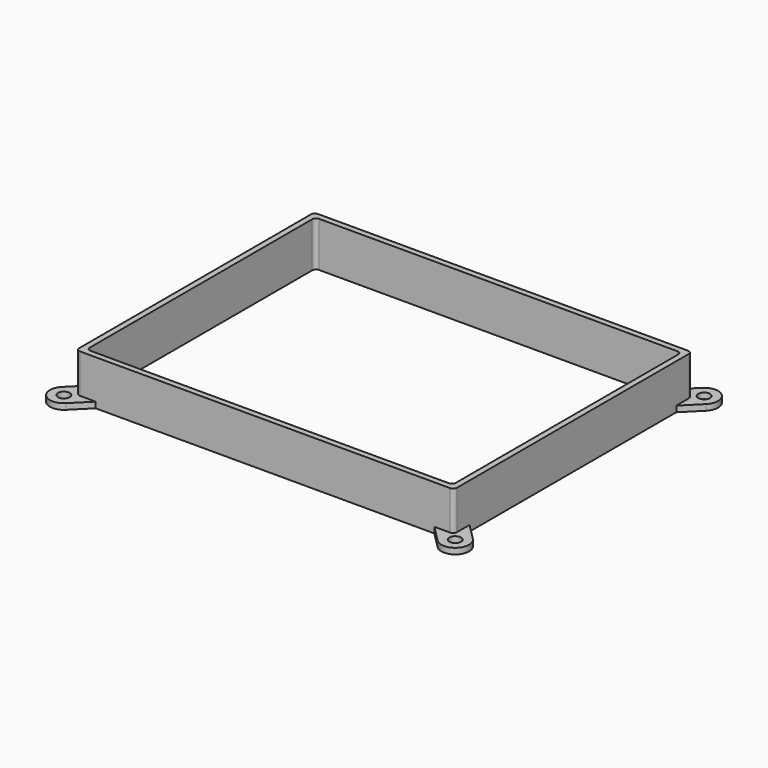
from build123d import *

# Parameters (mm, degrees)
SKETCH007_R   = 1.5
SKETCH007_W   = 93.5
SKETCH007_H   = 73
PAD004_DEPTH  = 1.5
SKETCH008_W   = 96.5
SKETCH008_H   = 76
SKETCH008_W_2 = 93.5
SKETCH008_H_2 = 73
PAD005_DEPTH  = 10
FILLET005_R   = 1


with BuildPart() as part:
    # Sketch007 → Pad004 (new body)
    with BuildSketch(Plane.XY):
        with BuildLine():
            Line((-48.25, -33), (-48.25, 33))
            Line((-48.25, 33), (-52.492641, 37.242641))
            ThreePointArc((-47.492641, 42.242641), (-52.492641, 42.242641), (-52.492641, 37.242641))
            Line((-43.25, 38), (-47.492641, 42.242641))
            Line((-43.25, 38), (43.25, 38))
            Line((43.25, 38), (47.492641, 42.242641))
            ThreePointArc((52.492641, 37.242641), (52.492641, 42.242641), (47.492641, 42.242641))
            Line((48.25, 33), (52.492641, 37.242641))
            Line((48.25, 33), (48.25, -33))
            Line((48.25, -33), (52.492641, -37.242641))
            ThreePointArc((47.492641, -42.242641), (52.492641, -42.242641), (52.492641, -37.242641))
            Line((43.25, -38), (47.492641, -42.242641))
            Line((43.25, -38), (-43.25, -38))
            Line((-43.25, -38), (-47.492641, -42.242641))
            ThreePointArc((-52.492641, -37.242641), (-52.492641, -42.242641), (-47.492641, -42.242641))
            Line((-48.25, -33), (-52.492641, -37.242641))
        make_face()
        with Locations((49.992641, -39.742641)):
            Circle(SKETCH007_R, mode=Mode.SUBTRACT)
        with Locations((-49.992641, -39.742641)):
            Circle(SKETCH007_R, mode=Mode.SUBTRACT)
        with Locations((-49.992641, 39.742641)):
            Circle(SKETCH007_R, mode=Mode.SUBTRACT)
        with Locations((49.992641, 39.742641)):
            Circle(SKETCH007_R, mode=Mode.SUBTRACT)
        Rectangle(SKETCH007_W, SKETCH007_H, mode=Mode.SUBTRACT)
    extrude(amount=PAD004_DEPTH)

    # Sketch008 (on Face26 of Pad004) → Pad005 (join)
    with BuildSketch(Plane.XY.offset(1.5)):
        Rectangle(SKETCH008_W, SKETCH008_H)
        Rectangle(SKETCH008_W_2, SKETCH008_H_2, mode=Mode.SUBTRACT)
    extrude(amount=PAD005_DEPTH)

    # Fillet005
    fillet005_edges = [part.edges().sort_by_distance(p)[0] for p in [
        (48.25, -38, 6.5),
        (-48.25, -38, 6.5),
        (48.25, 38, 6.5),
        (-48.25, 38, 6.5),
        (46.75, -36.5, 6.5),
        (-46.75, 36.5, 6.5),
        (46.75, 36.5, 6.5),
        (-46.75, -36.5, 6.5),
    ]]
    fillet(fillet005_edges, radius=FILLET005_R)


with BuildPart() as part_1:
    # Body003 placement: moved
    add(part.part.moved(Location((0, 0, 4.5))))


solid = part_1.part
